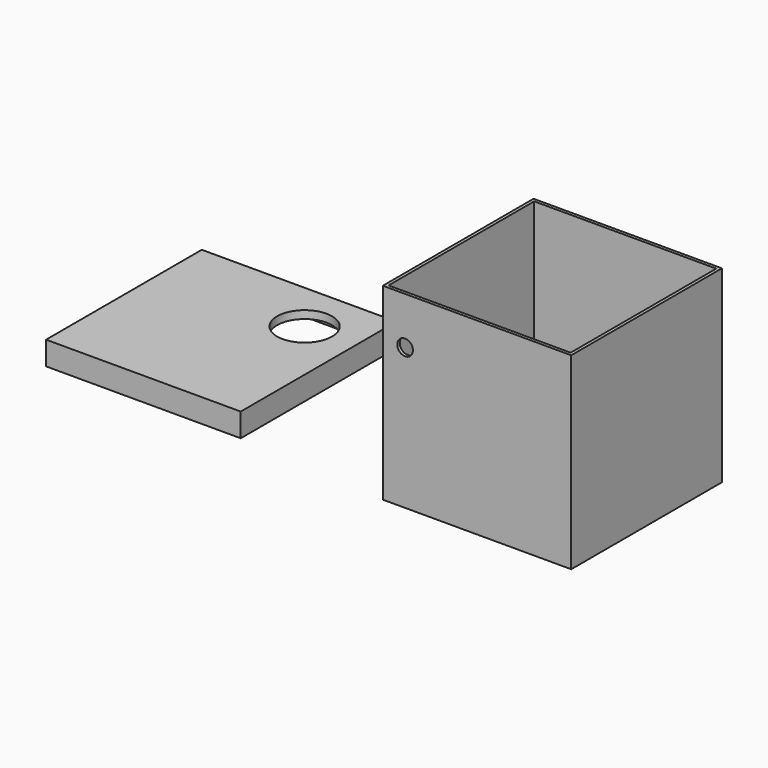
from build123d import *

# Parameters (mm, degrees)
F0_W      = 120
F0_H      = 119.999996
F1_DEPTH  = 120
F2_W      = 116
F2_H      = 115.999996
F3_DEPTH  = 110
F4_R      = 13
F5_DEPTH  = 25
F6_R      = 5
F7_DEPTH  = 25
F8_W      = 124
F8_H      = 124
F9_DEPTH  = 15
F10_W     = 120
F10_H     = 120
F11_DEPTH = 10
F12_R     = 17.5
F13_DEPTH = 20


with BuildPart() as f1:
    # F0 (on Top) → F1 (new body)
    with BuildSketch(Plane.XY):
        with Locations((0.202208, -4.268868)):
            Rectangle(F0_W, F0_H)
    extrude(amount=F1_DEPTH)

    # F2 (on face) → F3 (cut)
    with BuildSketch(Plane.XY.offset(120)):
        with Locations((0.202208, -4.268868)):
            Rectangle(F2_W, F2_H)
    extrude(amount=-F3_DEPTH, mode=Mode.SUBTRACT)

    # F4 (on face) → F5 (cut)
    with BuildSketch(Plane(origin=(0, 55.73113, 0), x_dir=(-1, 0, 0), z_dir=(0, 1, 0))):
        with Locations((-40.258337, 35.283614)):
            Circle(F4_R)
    extrude(amount=-F5_DEPTH, mode=Mode.SUBTRACT)

    # F6 (on face) → F7 (cut)
    with BuildSketch(Plane.XZ.offset(64.268866)):
        with Locations((-45.628637, 90)):
            Circle(F6_R)
    extrude(amount=-F7_DEPTH, mode=Mode.SUBTRACT)


with BuildPart() as f9:
    # F8 (on Top) → F9 (new body)
    with BuildSketch(Plane.XY):
        with Locations((-218.322887, 5.205988)):
            Rectangle(F8_W, F8_H)
    extrude(amount=F9_DEPTH)

    # F10 (on Top) → F11 (cut)
    with BuildSketch(Plane.XY):
        with Locations((-218.322887, 5.205988)):
            Rectangle(F10_W, F10_H)
    extrude(amount=F11_DEPTH, mode=Mode.SUBTRACT)

    # F12 (on Top) → F13 (cut)
    with BuildSketch(Plane.XY):
        with Locations((-188.822887, 34.705988)):
            Circle(F12_R)
    extrude(amount=F13_DEPTH, mode=Mode.SUBTRACT)


solid = Compound([f1.part, f9.part])
